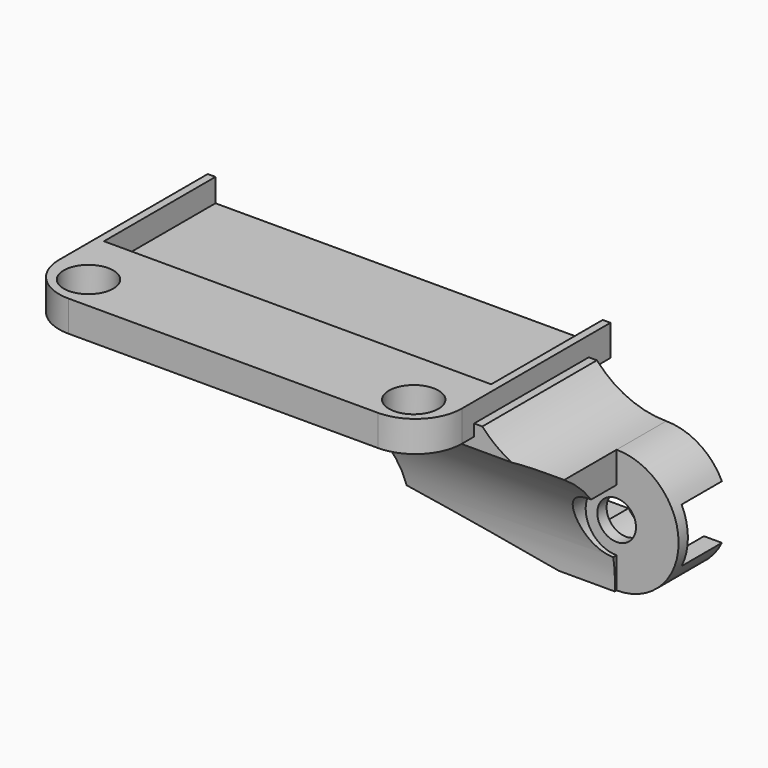
from build123d import *

# Parameters (mm, degrees)
BOX239_W               = 25
BOX239_H               = 10
BOX239_DEPTH           = 10
BOX239_PLACEMENT_ANGLE = 10
BOX236_W               = 25
BOX236_H               = 10
BOX236_DEPTH           = 10
CYLINDER312_R          = 9
CYLINDER312_DEPTH      = 17
CYLINDER311_R          = 9
CYLINDER311_DEPTH      = 24
CYLINDER315_R          = 3
CYLINDER315_DEPTH      = 10
BOX234_W               = 21
BOX234_H               = 7
BOX234_DEPTH           = 3.5
CYLINDER317_R          = 1.25
CYLINDER317_DEPTH      = 10
CYLINDER318_R          = 6
CYLINDER318_DEPTH      = 10
CYLINDER313_R          = 2
CYLINDER313_DEPTH      = 10
BOX230_W               = 20.75
BOX230_H               = 9.25
BOX230_DEPTH           = 10
CYLINDER316_R          = 4
CYLINDER316_DEPTH      = 4
BOX233_W               = 12
BOX233_H               = 4
BOX233_DEPTH           = 8
CYLINDER310_R          = 1.6
CYLINDER310_DEPTH      = 10
CYLINDER309_R          = 1.6
CYLINDER309_DEPTH      = 10
BOX231_W               = 26
BOX231_H               = 15
BOX231_DEPTH           = 2
FILLET122_R            = 3


with BuildPart() as obj1:
    # Box239 → Box239 (new body)
    with BuildSketch(Plane.XY):
        with Locations((12.5, 5)):
            Rectangle(BOX239_W, BOX239_H)
    extrude(amount=BOX239_DEPTH)


with BuildPart() as obj1_1:
    # Box239 placement: moved
    add(obj1.part.moved(Location((10.031417, -8.25, 26.431635))).rotate(Axis((10.031417, -8.25, 26.431635), (0, 1, 0)), BOX239_PLACEMENT_ANGLE))


with BuildPart() as obj2:
    # Box236 → Box236 (new body)
    with BuildSketch(Plane(origin=(7.75, -8.25, 42), x_dir=(1, 0, 0), z_dir=(0, 0, 1))):
        with Locations((12.5, 5)):
            Rectangle(BOX236_W, BOX236_H)
    extrude(amount=BOX236_DEPTH)


with BuildPart() as zylinder314:
    # Cylinder312 → Cylinder312 (new body)
    with BuildSketch(Plane(origin=(16, 3.363861, 32.453751), x_dir=(-1, 0, 0), z_dir=(0, -1, 0))):
        Circle(CYLINDER312_R)
    extrude(amount=CYLINDER312_DEPTH)


with BuildPart() as fusion210:
    # Cylinder311 → Cylinder311 (new body)
    with BuildSketch(Plane(origin=(16.5, -14.136139, 32.703751), x_dir=(0, -1, 0), z_dir=(1, 0, 0))):
        Circle(CYLINDER311_R)
    extrude(amount=CYLINDER311_DEPTH)

    # Fusion210: union Zylinder314
    add(zylinder314.part)


with BuildPart() as zylinder317:
    # Cylinder315 → Cylinder315 (new body)
    with BuildSketch(Plane(origin=(38.25, 5.75, 36.25), x_dir=(1, 0, 0), z_dir=(0, -1, 0))):
        Circle(CYLINDER315_R)
    extrude(amount=CYLINDER315_DEPTH)


with BuildPart() as obj3:
    # Box234 → Box234 (new body)
    with BuildSketch(Plane(origin=(22.5, -4.25, 34.5), x_dir=(1, 0, 0), z_dir=(0, 0, 1))):
        with Locations((10.5, 3.5)):
            Rectangle(BOX234_W, BOX234_H)
    extrude(amount=BOX234_DEPTH)


with BuildPart() as zylinder319:
    # Cylinder317 → Cylinder317 (new body)
    with BuildSketch(Plane(origin=(38.25, 3.25, 36.25), x_dir=(1, 0, 0), z_dir=(0, -1, 0))):
        Circle(CYLINDER317_R)
    extrude(amount=CYLINDER317_DEPTH)


with BuildPart() as zylinder320:
    # Cylinder318 → Cylinder318 (new body)
    with BuildSketch(Plane(origin=(38.25, -0.5, 46.25), x_dir=(1, 0, 0), z_dir=(0, -1, 0))):
        Circle(CYLINDER318_R)
    extrude(amount=CYLINDER318_DEPTH)


with BuildPart() as fusion212:
    # Cylinder313 → Cylinder313 (new body)
    with BuildSketch(Plane(origin=(38.25, -5, 36.25), x_dir=(1, 0, 0), z_dir=(0, -1, 0))):
        Circle(CYLINDER313_R)
    extrude(amount=CYLINDER313_DEPTH)

    # Fusion212: union Zylinder317, obj3, Zylinder319, Zylinder320
    add(zylinder317.part)
    add(obj3.part)
    add(zylinder319.part)
    add(zylinder320.part)


with BuildPart() as obj4:
    # Box230 → Box230 (new body)
    with BuildSketch(Plane(origin=(17.5, -10.25, 32.25), x_dir=(1, 0, 0), z_dir=(0, 0, 1))):
        with Locations((10.375, 4.625)):
            Rectangle(BOX230_W, BOX230_H)
    extrude(amount=BOX230_DEPTH)


with BuildPart() as zylinder318:
    # Cylinder316 → Cylinder316 (new body)
    with BuildSketch(Plane(origin=(38.25, -1, 36.25), x_dir=(1, 0, 0), z_dir=(0, -1, 0))):
        Circle(CYLINDER316_R)
    extrude(amount=CYLINDER316_DEPTH)


with BuildPart() as cut146:
    # Box233 → Box233 (new body)
    with BuildSketch(Plane(origin=(26.25, -5, 32.25), x_dir=(1, 0, 0), z_dir=(0, 0, 1))):
        with Locations((6, 2)):
            Rectangle(BOX233_W, BOX233_H)
    extrude(amount=BOX233_DEPTH)

    # Fusion211: union obj4, Zylinder318
    add(obj4.part)
    add(zylinder318.part)

    # Cut145: cut Fusion212
    add(fusion212.part, mode=Mode.SUBTRACT)

    # Cut146: cut Fusion210
    add(fusion210.part, mode=Mode.SUBTRACT)


with BuildPart() as zylinder312:
    # Cylinder310 → Cylinder310 (new body)
    with BuildSketch(Plane(origin=(35, -13.75, 33.25), x_dir=(1, 0, 0), z_dir=(0, 0, 1))):
        Circle(CYLINDER310_R)
    extrude(amount=CYLINDER310_DEPTH)


with BuildPart() as fusion209:
    # Cylinder309 → Cylinder309 (new body)
    with BuildSketch(Plane(origin=(14, -13.75, 33.25), x_dir=(1, 0, 0), z_dir=(0, 0, 1))):
        Circle(CYLINDER309_R)
    extrude(amount=CYLINDER309_DEPTH)

    # Fusion209: union Zylinder312
    add(zylinder312.part)


with BuildPart() as fusion209_1:
    # Fusion209 placement: moved
    add(fusion209.part.moved(Location((0.5, 0, 5))))


with BuildPart() as cut149:
    # Box231 → Box231 (new body)
    with BuildSketch(Plane(origin=(12, -16, 41.5), x_dir=(1, 0, 0), z_dir=(0, 0, 1))):
        with Locations((13, 7.5)):
            Rectangle(BOX231_W, BOX231_H)
    extrude(amount=BOX231_DEPTH)

    # Cut144: cut Fusion209
    add(fusion209_1.part, mode=Mode.SUBTRACT)


with BuildPart() as cut149_1:
    # Cut144 placement: moved
    add(cut149.part.moved(Location((0, 1.75, 0))))

    # Fillet122
    fillet122_edges = [cut149_1.edges().sort_by_distance(p)[0] for p in [
        (12, -14.25, 42.5),
        (38, -14.25, 42.5),
    ]]
    fillet(fillet122_edges, radius=FILLET122_R)


with BuildPart() as cut149_2:
    # Fillet122 placement: moved
    add(cut149_1.part.moved(Location((-4.75, 0, 0))))

    # Fusion213: union Cut146
    add(cut146.part)

    # Cut147: cut obj2
    add(obj2.part, mode=Mode.SUBTRACT)

    # Cut149: cut obj1
    add(obj1_1.part, mode=Mode.SUBTRACT)


solid = cut149_2.part
